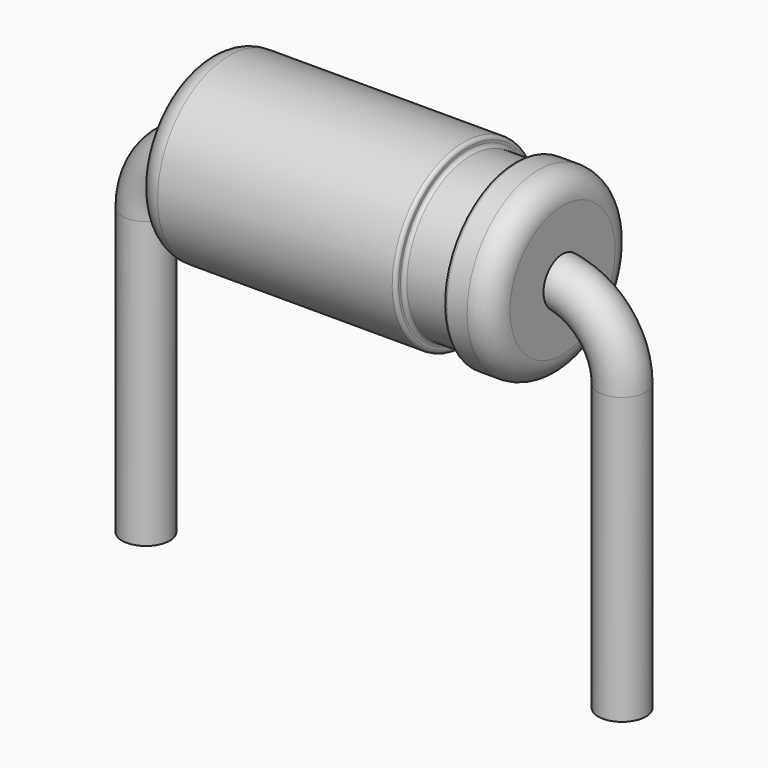
from build123d import *

# Parameters (mm, degrees)
F2_R = 0.254
F3_R = 0.0381
F6_R = 0.254


with BuildPart() as f1:
    # F0 (on Front) → F1 (revolve)
    with BuildSketch(Plane.XZ):
        Polygon((-1.905, 0.95504), (-1.905, 0), (1.905, 0), (1.905, 0.95504), (1.397, 0.95504), (1.397, 0.85344), (0.889, 0.85344), (0.889, 0.95504), align=None)
    revolve(axis=Axis((0, 0, 0), (1, 0, 0)))

    # F2
    f2_edges = [f1.edges().sort_by_distance(p)[0] for p in [
        (1.905, 0, -0.95504),
        (-1.905, 0, -0.95504),
    ]]
    fillet(f2_edges, radius=F2_R)

    # F3
    f3_edges = [f1.edges().sort_by_distance(p)[0] for p in [
        (1.397, 0, -0.95504),
        (1.397, 0, -0.85344),
        (0.889, 0, -0.85344),
        (0.889, 0, -0.95504),
    ]]
    fillet(f3_edges, radius=F3_R)

    # F7: sweep along a path in F4
    with BuildLine(Plane.XZ) as f7_path:
        Line((-2.54, -3.81), (-2.54, -0.762))
        ThreePointArc((-2.54, -0.762), (-2.316815, -0.223185), (-1.778, 0))
        Line((-1.778, 0), (1.778, 0))
        ThreePointArc((1.778, 0), (2.316815, -0.223185), (2.54, -0.762))
        Line((2.54, -0.762), (2.54, -3.81))
    # F6 (on offset) → F7 (sweep)
    with BuildSketch(Plane.XY.offset(-3.81)):
        with Locations((-2.54, 0)):
            Circle(F6_R)
    sweep(path=f7_path.line)


solid = f1.part
